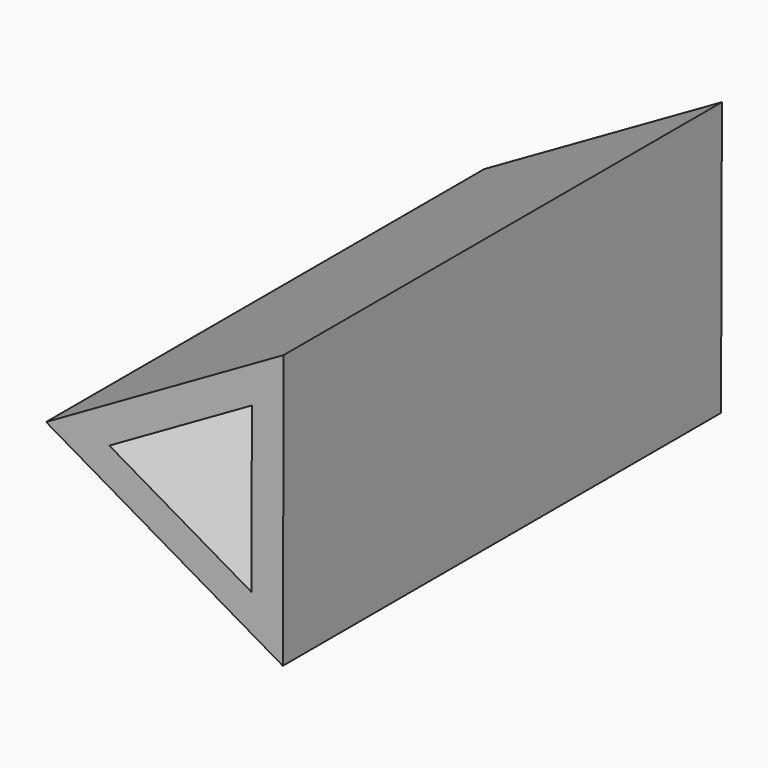
from build123d import *

# Parameters (mm, degrees)
F1_DEPTH = 100
F2_W     = 30
F2_H     = 80
F3_DEPTH = 5
F5_DEPTH = 80


with BuildPart() as f1:
    # F0 (on Front) → F1 (new body)
    with BuildSketch(Plane.XZ):
        Polygon((14.5147677447, 24.9530529325), (-28.8673616138, 0.0936311307), (14.3525938692, -25.0466840632), align=None)
    extrude(amount=F1_DEPTH)

    # F2 (on face) → F3 (cut)
    with BuildSketch(Plane(origin=(-7.2573838723, 0, -12.4765264662), x_dir=(0.8643991097, 0, -0.5028063039), z_dir=(-0.5028063039, 0, -0.8643991097))):
        with Locations((0, 50)):
            Rectangle(F2_W, F2_H)
    extrude(amount=-F3_DEPTH, mode=Mode.SUBTRACT)

    # F4 (on face) → F5 (cut)
    with BuildSketch(Plane.XZ.offset(100)):
        Polygon((8.7088606468, 14.9718317595), (-17.3204169683, 0.0561786784), (8.6115563215, -15.0280104379), align=None)
    extrude(amount=-F5_DEPTH, mode=Mode.SUBTRACT)


solid = f1.part
